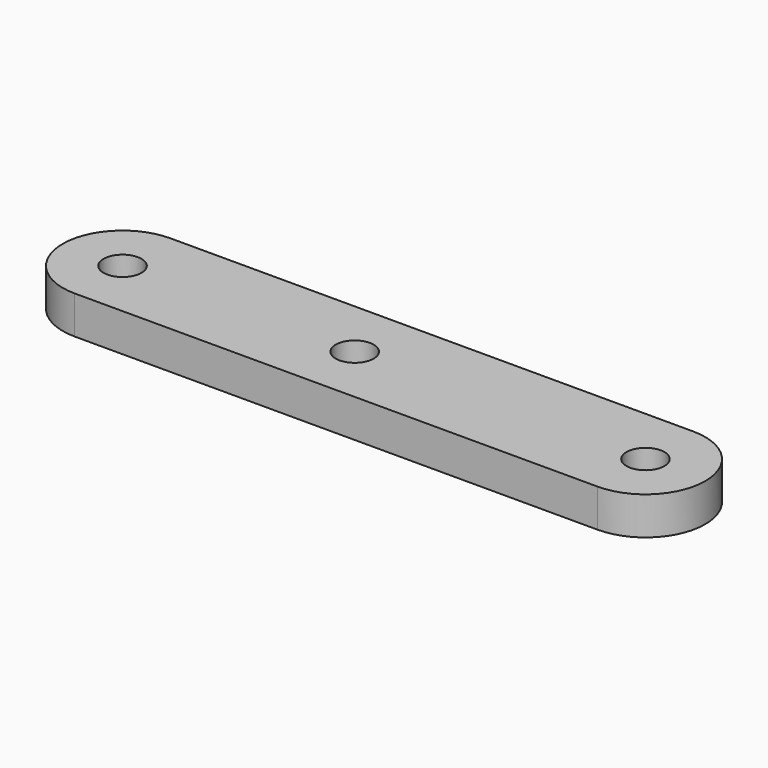
from build123d import *

# Parameters (mm, degrees)
F2_DEPTH = 6.35
F1_R     = 3.175
F3_DEPTH = 6.351


with BuildPart() as f2:
    # F0 (on Top) → F2 (new body)
    with BuildSketch(Plane.XY):
        with BuildLine():
            ThreePointArc((-37.093219, 60.618736), (-47.093219, 50.618736), (-37.093219, 40.618736))
            Line((-37.093219, 40.618736), (50.406781, 40.618736))
            ThreePointArc((50.406781, 40.618736), (60.406781, 50.618736), (50.406781, 60.618736))
            Line((50.406781, 60.618736), (-37.093219, 60.618736))
        make_face()
    extrude(amount=F2_DEPTH)

    # F1 (on face) → F3 (cut, through all)
    with BuildSketch(Plane.XY):
        with Locations((-37.093219, 50.618736)):
            Circle(F1_R)
        with Locations((50.406781, 50.618736)):
            Circle(F1_R)
        with Locations((1.756781, 50.618736)):
            Circle(F1_R)
    extrude(amount=F3_DEPTH, mode=Mode.SUBTRACT)


solid = f2.part
